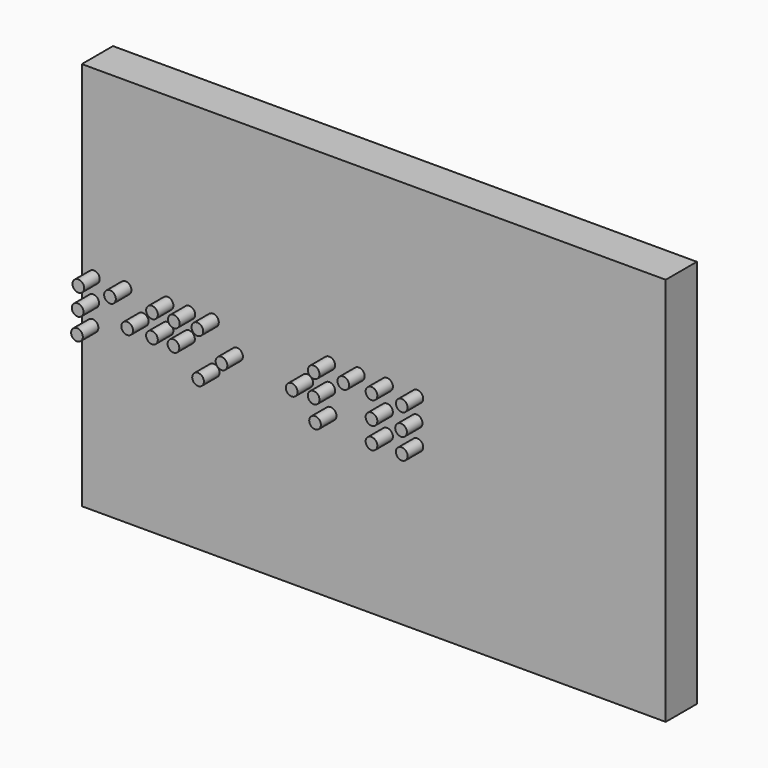
from build123d import *

# Parameters (mm, degrees)
F0_W     = 38.1
F0_H     = 25.4
F1_DEPTH = 2.54
F2_R     = 0.381
F3_DEPTH = 1.27


with BuildPart() as f1:
    # F0 (on Front) → F1 (new body)
    with BuildSketch(Plane.XZ):
        with Locations((-4.366942, 7.898669)):
            Rectangle(F0_W, F0_H)
    extrude(amount=F1_DEPTH)

    # F2 (on face) → F3 (join)
    with BuildSketch(Plane.XZ.offset(2.54)):
        with Locations((-22.628448, 8.621647)):
            Circle(F2_R)
        with Locations((-22.673348, 7.229707)):
            Circle(F2_R)
        with Locations((-22.71825, 5.792865)):
            Circle(F2_R)
        with Locations((-20.562988, 8.666548)):
            Circle(F2_R)
        with Locations((-19.44069, 7.222461)):
            Circle(F2_R)
        with Locations((-17.824008, 8.666548)):
            Circle(F2_R)
        with Locations((-17.823951, 7.219792)):
            Circle(F2_R)
        with Locations((-16.422709, 7.196644)):
            Circle(F2_R)
        with Locations((-14.860522, 8.666548)):
            Circle(F2_R)
        with Locations((-14.815622, 5.792865)):
            Circle(F2_R)
        with Locations((-13.289006, 7.212305)):
            Circle(F2_R)
        with Locations((-8.709045, 7.184805)):
            Circle(F2_R)
        with Locations((-7.272203, 8.666548)):
            Circle(F2_R)
        with Locations((-7.272248, 7.202373)):
            Circle(F2_R)
        with Locations((-7.182401, 5.792865)):
            Circle(F2_R)
        with Locations((-5.341447, 8.666548)):
            Circle(F2_R)
        with Locations((-3.500494, 8.666548)):
            Circle(F2_R)
        with Locations((-3.500401, 7.196146)):
            Circle(F2_R)
        with Locations((-3.500494, 5.792865)):
            Circle(F2_R)
        with Locations((-1.524837, 8.621647)):
            Circle(F2_R)
        with Locations((-1.569576, 7.192959)):
            Circle(F2_R)
        with Locations((-1.524837, 5.837766)):
            Circle(F2_R)
        with Locations((-16.401319, 8.608644)):
            Circle(F2_R)
    extrude(amount=F3_DEPTH)


solid = f1.part
